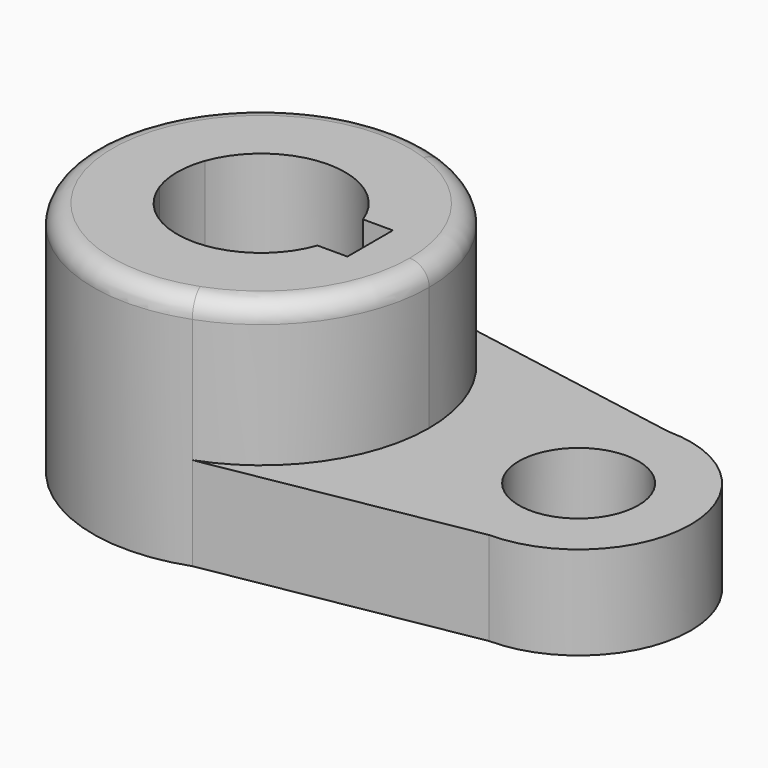
from build123d import *

# Parameters (mm, degrees)
F1_DEPTH = 40.2336
F0_R     = 10.16
F2_DEPTH = 15.875
F3_R     = 3.302


with BuildPart() as f1:
    # F0 (on Top) → F1 (new body)
    with BuildSketch(Plane.XY):
        with BuildLine():
            ThreePointArc((9.780705, -26.848993), (23.409552, -16.386686), (28.575, 0))
            ThreePointArc((28.575, 0), (23.409552, 16.386686), (9.780705, 26.848993))
            ThreePointArc((9.780705, 26.848993), (-28.575, 0), (9.780705, -26.848993))
        make_face()
        with BuildLine():
            ThreePointArc((-13.447765, -4.826), (-14.2875, 0), (-13.447765, 4.826))
            ThreePointArc((-13.447765, 4.826), (0, 14.2875), (13.447765, 4.826))
            Line((13.447765, 4.826), (18.5293, 4.826))
            Line((18.5293, 4.826), (18.5293, -4.826))
            Line((18.5293, -4.826), (13.447765, -4.826))
            ThreePointArc((13.447765, -4.826), (0, -14.2875), (-13.447765, -4.826))
        make_face(mode=Mode.SUBTRACT)
    extrude(amount=F1_DEPTH)

    # F0 (on Top) → F2 (join)
    with BuildSketch(Plane.XY):
        with BuildLine():
            ThreePointArc((9.780705, -26.848993), (23.409552, -16.386686), (28.575, 0))
            ThreePointArc((28.575, 0), (23.409552, 16.386686), (9.780705, 26.848993))
            ThreePointArc((9.780705, 26.848993), (-28.575, 0), (9.780705, -26.848993))
        make_face()
        with BuildLine():
            ThreePointArc((-13.447765, -4.826), (-14.2875, 0), (-13.447765, 4.826))
            ThreePointArc((-13.447765, 4.826), (0, 14.2875), (13.447765, 4.826))
            Line((13.447765, 4.826), (18.5293, 4.826))
            Line((18.5293, 4.826), (18.5293, -4.826))
            Line((18.5293, -4.826), (13.447765, -4.826))
            ThreePointArc((13.447765, -4.826), (0, -14.2875), (-13.447765, -4.826))
        make_face(mode=Mode.SUBTRACT)
        with BuildLine():
            ThreePointArc((9.780705, 26.848993), (23.409552, 16.386686), (28.575, 0))
            ThreePointArc((28.575, 0), (23.409552, -16.386686), (9.780705, -26.848993))
            Line((9.780705, -26.848993), (53.975, -19.05))
            ThreePointArc((53.975, -19.05), (73.025, 0), (53.975, 19.05))
            Line((53.975, 19.05), (9.780705, 26.848993))
        make_face()
        with Locations((53.975, 0)):
            Circle(F0_R, mode=Mode.SUBTRACT)
    extrude(amount=F2_DEPTH)

    # F3
    f3_edges = [f1.edges().sort_by_distance(p)[0] for p in [
        (-9.780705, 26.848993, 40.2336),
    ]]
    fillet(f3_edges, radius=F3_R)


solid = f1.part
